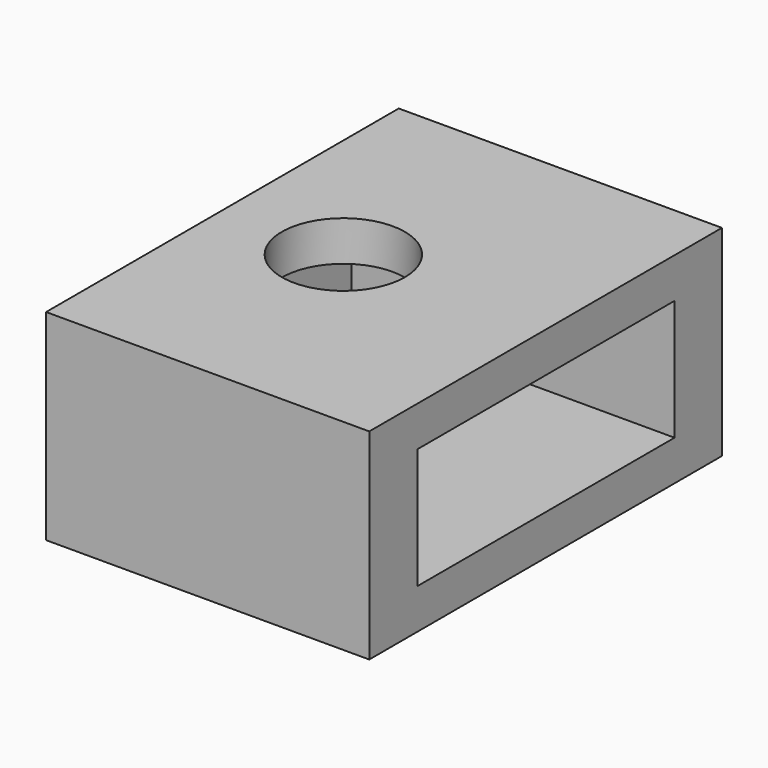
from build123d import *

# Parameters (mm, degrees)
BOX009_W     = 8.5
BOX009_H     = 8
BOX009_DEPTH = 3
SKETCH013_W  = 8.045495
SKETCH013_H  = 10.974572
SKETCH013_R  = 1.530969
PAD013_DEPTH = 5


with BuildPart() as body059:
    # Box009 → Box009 (new body)
    with BuildSketch(Plane(origin=(-3, -4, 1), x_dir=(1, 0, 0), z_dir=(0, 0, 1))):
        with Locations((4.25, 4)):
            Rectangle(BOX009_W, BOX009_H)
    extrude(amount=BOX009_DEPTH)


with BuildPart() as body059_1:
    # BaseFeature015 placement: moved
    add(body059.part.moved(Location((3, 4, -1))))


with BuildPart() as body059_2:
    # Body059 placement: moved
    add(body059_1.part.moved(Location((-3, -4, 1))))


with BuildPart() as cut011:
    # Sketch013 → Pad013 (new body)
    with BuildSketch(Plane.XY):
        with Locations((1.022447, -0.012719)):
            Rectangle(SKETCH013_W, SKETCH013_H)
        Circle(SKETCH013_R, mode=Mode.SUBTRACT)
    extrude(amount=PAD013_DEPTH)

    # Cut011: cut Body059
    add(body059_2.part, mode=Mode.SUBTRACT)


solid = cut011.part
